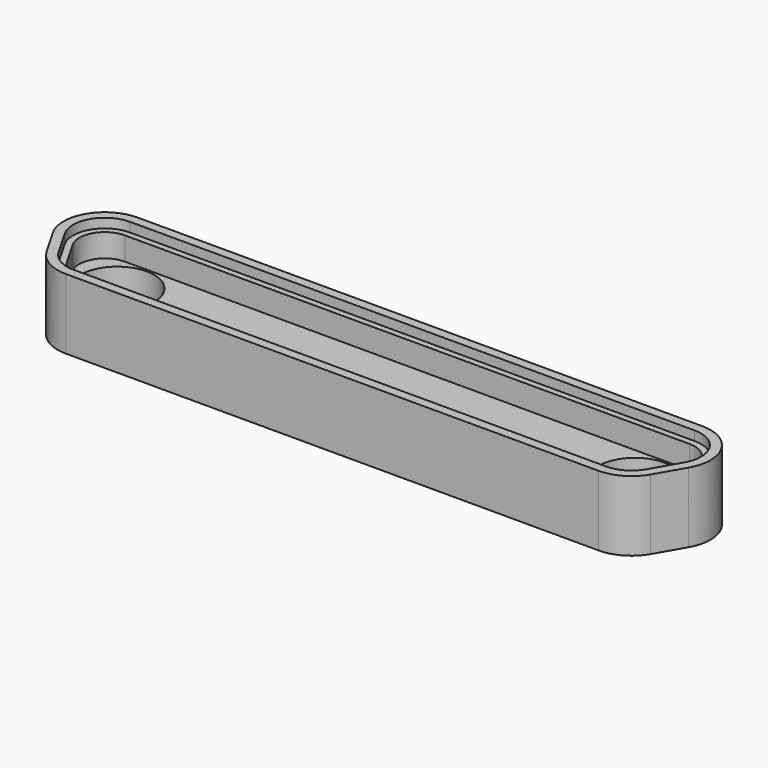
from build123d import *

# Parameters (mm, degrees)
F0_R     = 1.5
F1_DEPTH = 2.8448
F2_DEPTH = 1.3208
F3_DEPTH = 0.381
F4_DEPTH = 2.8458


with BuildPart() as f1:
    # F0 (on Top) → F1 (new body)
    with BuildSketch(Plane.XY):
        with BuildLine():
            Line((11.4554, 2.2225), (-11.4554, 2.2225))
            ThreePointArc((-11.4554, 2.2225), (-12.896206, 1.39065), (-12.896206, -0.27305))
            Line((-12.896206, -0.27305), (-12.25096, -1.39065))
            ThreePointArc((-12.25096, -1.39065), (-11.642003, -1.999606), (-10.810153, -2.2225))
            Line((-10.810153, -2.2225), (10.810153, -2.2225))
            ThreePointArc((10.810153, -2.2225), (11.642003, -1.999606), (12.25096, -1.39065))
            Line((12.25096, -1.39065), (12.896206, -0.27305))
            ThreePointArc((12.896206, -0.27305), (12.896206, 1.39065), (11.4554, 2.2225))
        make_face()
        with BuildLine():
            ThreePointArc((-12.566251, -0.08255), (-12.566251, 1.20015), (-11.4554, 1.8415))
            Line((-11.4554, 1.8415), (11.4554, 1.8415))
            ThreePointArc((11.4554, 1.8415), (12.566251, 1.20015), (12.566251, -0.08255))
            Line((12.566251, -0.08255), (11.921004, -1.20015))
            ThreePointArc((11.921004, -1.20015), (11.451503, -1.669651), (10.810153, -1.8415))
            Line((10.810153, -1.8415), (-10.810153, -1.8415))
            ThreePointArc((-10.810153, -1.8415), (-11.451503, -1.669651), (-11.921004, -1.20015))
            Line((-11.921004, -1.20015), (-12.566251, -0.08255))
        make_face(mode=Mode.SUBTRACT)
        with BuildLine():
            Line((11.4554, 1.8415), (-11.4554, 1.8415))
            ThreePointArc((-11.4554, 1.8415), (-12.566251, 1.20015), (-12.566251, -0.08255))
            Line((-12.566251, -0.08255), (-11.921004, -1.20015))
            ThreePointArc((-11.921004, -1.20015), (-11.451503, -1.669651), (-10.810153, -1.8415))
            Line((-10.810153, -1.8415), (10.810153, -1.8415))
            ThreePointArc((10.810153, -1.8415), (11.451503, -1.669651), (11.921004, -1.20015))
            Line((11.921004, -1.20015), (12.566251, -0.08255))
            ThreePointArc((12.566251, -0.08255), (12.566251, 1.20015), (11.4554, 1.8415))
        make_face()
        with BuildLine():
            ThreePointArc((-12.34628, 0.04445), (-12.34628, 1.07315), (-11.4554, 1.5875))
            Line((-11.4554, 1.5875), (11.4554, 1.5875))
            ThreePointArc((11.4554, 1.5875), (12.34628, 1.07315), (12.34628, 0.04445))
            Line((12.34628, 0.04445), (11.701034, -1.07315))
            ThreePointArc((11.701034, -1.07315), (11.324503, -1.44968), (10.810153, -1.5875))
            Line((10.810153, -1.5875), (-10.810153, -1.5875))
            ThreePointArc((-10.810153, -1.5875), (-11.324503, -1.44968), (-11.701034, -1.07315))
            Line((-11.701034, -1.07315), (-12.34628, 0.04445))
        make_face(mode=Mode.SUBTRACT)
        with BuildLine():
            Line((11.4554, 1.5875), (-11.4554, 1.5875))
            ThreePointArc((-11.4554, 1.5875), (-12.34628, 1.07315), (-12.34628, 0.04445))
            Line((-12.34628, 0.04445), (-11.701034, -1.07315))
            ThreePointArc((-11.701034, -1.07315), (-11.324503, -1.44968), (-10.810153, -1.5875))
            Line((-10.810153, -1.5875), (10.810153, -1.5875))
            ThreePointArc((10.810153, -1.5875), (11.324503, -1.44968), (11.701034, -1.07315))
            Line((11.701034, -1.07315), (12.34628, 0.04445))
            ThreePointArc((12.34628, 0.04445), (12.34628, 1.07315), (11.4554, 1.5875))
        make_face()
        with Locations((-10.500578, 0)):
            Circle(F0_R, mode=Mode.SUBTRACT)
        with Locations((10.500578, 0)):
            Circle(F0_R, mode=Mode.SUBTRACT)
        with Locations((-10.500578, 0)):
            Circle(F0_R)
        with Locations((10.500578, 0)):
            Circle(F0_R)
    extrude(amount=-F1_DEPTH)

    # F0 (on Top) → F2 (cut)
    with BuildSketch(Plane.XY):
        with BuildLine():
            Line((11.4554, 1.5875), (-11.4554, 1.5875))
            ThreePointArc((-11.4554, 1.5875), (-12.34628, 1.07315), (-12.34628, 0.04445))
            Line((-12.34628, 0.04445), (-11.701034, -1.07315))
            ThreePointArc((-11.701034, -1.07315), (-11.324503, -1.44968), (-10.810153, -1.5875))
            Line((-10.810153, -1.5875), (10.810153, -1.5875))
            ThreePointArc((10.810153, -1.5875), (11.324503, -1.44968), (11.701034, -1.07315))
            Line((11.701034, -1.07315), (12.34628, 0.04445))
            ThreePointArc((12.34628, 0.04445), (12.34628, 1.07315), (11.4554, 1.5875))
        make_face()
        with Locations((-10.500578, 0)):
            Circle(F0_R, mode=Mode.SUBTRACT)
        with Locations((10.500578, 0)):
            Circle(F0_R, mode=Mode.SUBTRACT)
        with Locations((-10.500578, 0)):
            Circle(F0_R)
        with Locations((10.500578, 0)):
            Circle(F0_R)
    extrude(amount=-F2_DEPTH, mode=Mode.SUBTRACT)

    # F0 (on Top) → F3 (cut)
    with BuildSketch(Plane.XY):
        with BuildLine():
            Line((11.4554, 1.8415), (-11.4554, 1.8415))
            ThreePointArc((-11.4554, 1.8415), (-12.566251, 1.20015), (-12.566251, -0.08255))
            Line((-12.566251, -0.08255), (-11.921004, -1.20015))
            ThreePointArc((-11.921004, -1.20015), (-11.451503, -1.669651), (-10.810153, -1.8415))
            Line((-10.810153, -1.8415), (10.810153, -1.8415))
            ThreePointArc((10.810153, -1.8415), (11.451503, -1.669651), (11.921004, -1.20015))
            Line((11.921004, -1.20015), (12.566251, -0.08255))
            ThreePointArc((12.566251, -0.08255), (12.566251, 1.20015), (11.4554, 1.8415))
        make_face()
        with BuildLine():
            ThreePointArc((-12.34628, 0.04445), (-12.34628, 1.07315), (-11.4554, 1.5875))
            Line((-11.4554, 1.5875), (11.4554, 1.5875))
            ThreePointArc((11.4554, 1.5875), (12.34628, 1.07315), (12.34628, 0.04445))
            Line((12.34628, 0.04445), (11.701034, -1.07315))
            ThreePointArc((11.701034, -1.07315), (11.324503, -1.44968), (10.810153, -1.5875))
            Line((10.810153, -1.5875), (-10.810153, -1.5875))
            ThreePointArc((-10.810153, -1.5875), (-11.324503, -1.44968), (-11.701034, -1.07315))
            Line((-11.701034, -1.07315), (-12.34628, 0.04445))
        make_face(mode=Mode.SUBTRACT)
    extrude(amount=-F3_DEPTH, mode=Mode.SUBTRACT)

    # F0 (on Top) → F4 (cut, through all)
    with BuildSketch(Plane.XY):
        with Locations((-10.500578, 0)):
            Circle(F0_R)
        with Locations((10.500578, 0)):
            Circle(F0_R)
    extrude(amount=-F4_DEPTH, mode=Mode.SUBTRACT)


solid = f1.part
